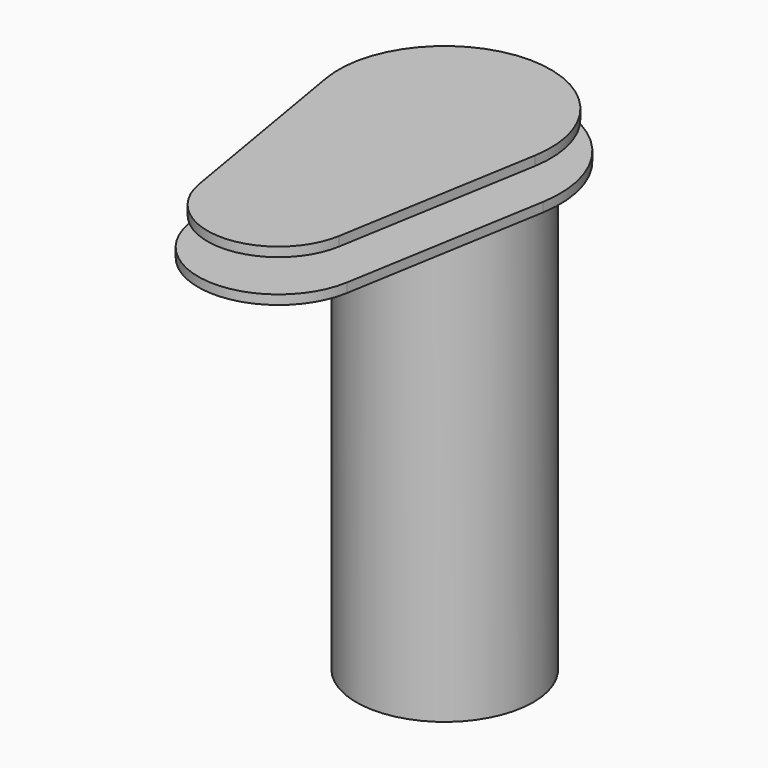
from build123d import *

# Parameters (mm, degrees)
F3_DEPTH = 12.7
F4_DEPTH = 12.7
F5_R     = 120.65
F5_R_2   = 114.3
F6_DEPTH = 609.6


with BuildPart() as f3:
    # F0 (on Top) → F3 (new body)
    with BuildSketch(Plane.XY):
        with BuildLine():
            Line((95.458483, -299.494333), (142.405277, -24.293021))
            ThreePointArc((142.405277, -24.293021), (0, 144.4625), (-142.405277, -24.293021))
            Line((-142.405277, -24.293021), (-95.458483, -299.494333))
            ThreePointArc((-95.458483, -299.494333), (0, -380.0475), (95.458483, -299.494333))
        make_face()
    extrude(amount=-F3_DEPTH)


with BuildPart() as f4:
    # F2 (on offset) → F4 (new body)
    with BuildSketch(Plane.XY.offset(-50.8)):
        with BuildLine():
            ThreePointArc((154.924423, -26.428672), (0, 157.1625), (-154.924423, -26.428672))
            Line((-154.924423, -26.428672), (-107.977628, -301.629983))
            ThreePointArc((-107.977628, -301.629983), (0, -392.7475), (107.977628, -301.629983))
            Line((107.977628, -301.629983), (154.924423, -26.428672))
        make_face()
    extrude(amount=-F4_DEPTH)


with BuildPart() as f6:
    # F5 (on face) → F6 (new body)
    with BuildSketch(Plane(origin=(0, 0, -63.5), x_dir=(1, 0, 0), z_dir=(0, 0, -1))):
        Circle(F5_R)
        Circle(F5_R_2, mode=Mode.SUBTRACT)
    extrude(amount=F6_DEPTH)


solid = Compound([f3.part, f4.part, f6.part])
